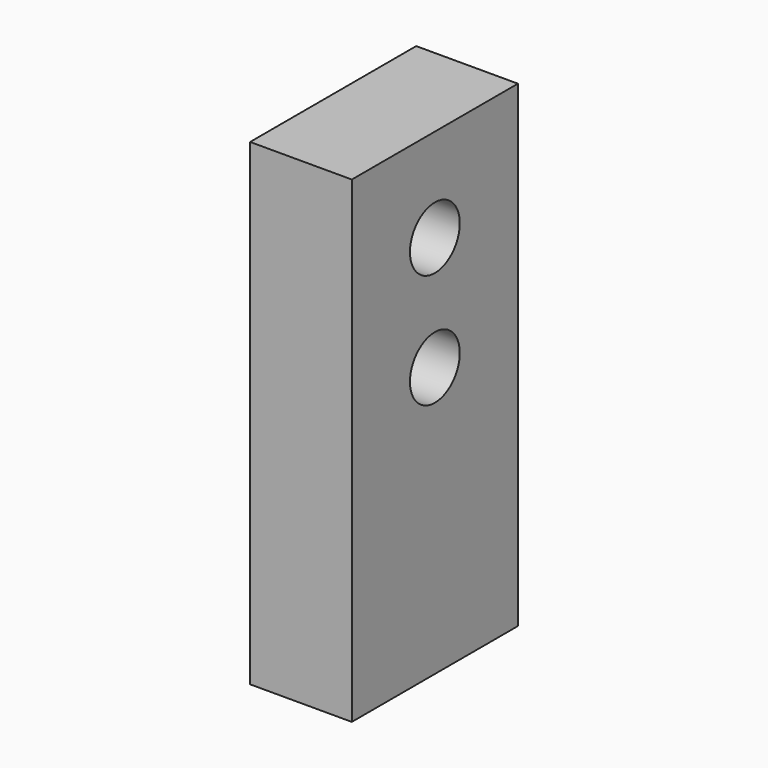
from build123d import *

# Parameters (mm, degrees)
F0_W     = 124.46
F0_H     = 584.2
F1_DEPTH = 254
F2_R     = 38.1
F3_DEPTH = 185.42


with BuildPart() as f1:
    # F0 (on Front) → F1 (new body)
    with BuildSketch(Plane.XZ):
        with Locations((0, -6.367647)):
            Rectangle(F0_W, F0_H)
    extrude(amount=F1_DEPTH)

    # F2 (on face) → F3 (cut)
    with BuildSketch(Plane(origin=(-62.23, 0, 0), x_dir=(0, -1, 0), z_dir=(-1, 0, 0))):
        with Locations((127, 171.432353)):
            Circle(F2_R)
        with Locations((127, 31.732353)):
            Circle(F2_R)
    extrude(amount=-F3_DEPTH, mode=Mode.SUBTRACT)


solid = f1.part
